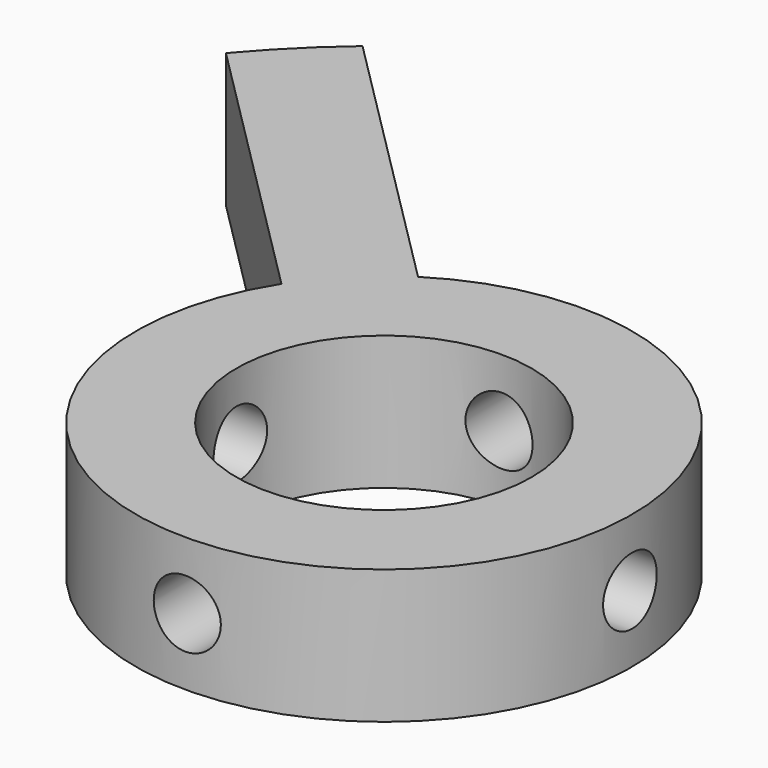
from build123d import *

# Parameters (mm, degrees)
SKETCH019_R          = 11
PAD015_DEPTH         = 5
SKETCH020_R          = 2.5
POCKET012_DEPTH      = 53.001
POCKET012_DEPTH_BACK = 1.797696
SKETCH021_R          = 2.5
POCKET013_DEPTH      = 1.297696
POCKET013_DEPTH_BACK = 53.501


with BuildPart() as part:
    # Sketch019 → Pad015 (new body, symmetric)
    with BuildSketch(Plane.XY):
        with BuildLine():
            ThreePointArc((-30.639841, 36.296696), (-33.587572, 33.587572), (-36.296696, 30.639841))
            Line((-36.296696, 30.639841), (-15.600467, 9.943613))
            ThreePointArc((-15.600467, 9.943613), (13.081475, -13.081475), (-9.943613, 15.600467))
            Line((-30.639841, 36.296696), (-9.943613, 15.600467))
        make_face()
        Circle(SKETCH019_R, mode=Mode.SUBTRACT)
    extrude(amount=PAD015_DEPTH, both=True)

    # Sketch020 → Pocket012 (cut, two sides)
    with BuildSketch(Plane(origin=(0, 34.5, 0), x_dir=(-1, 0, 0), z_dir=(0, 1, 0))) as pocket012_sk:
        Circle(SKETCH020_R)
    extrude(amount=-POCKET012_DEPTH, mode=Mode.SUBTRACT)
    extrude(pocket012_sk.sketch, amount=POCKET012_DEPTH_BACK, mode=Mode.SUBTRACT)

    # Sketch021 → Pocket013 (cut, two sides)
    with BuildSketch(Plane(origin=(-35, 0, 0), x_dir=(0, 0, -1), z_dir=(1, 0, 0))) as pocket013_sk:
        Circle(SKETCH021_R)
    extrude(amount=-POCKET013_DEPTH, mode=Mode.SUBTRACT)
    extrude(pocket013_sk.sketch, amount=POCKET013_DEPTH_BACK, mode=Mode.SUBTRACT)


solid = part.part
